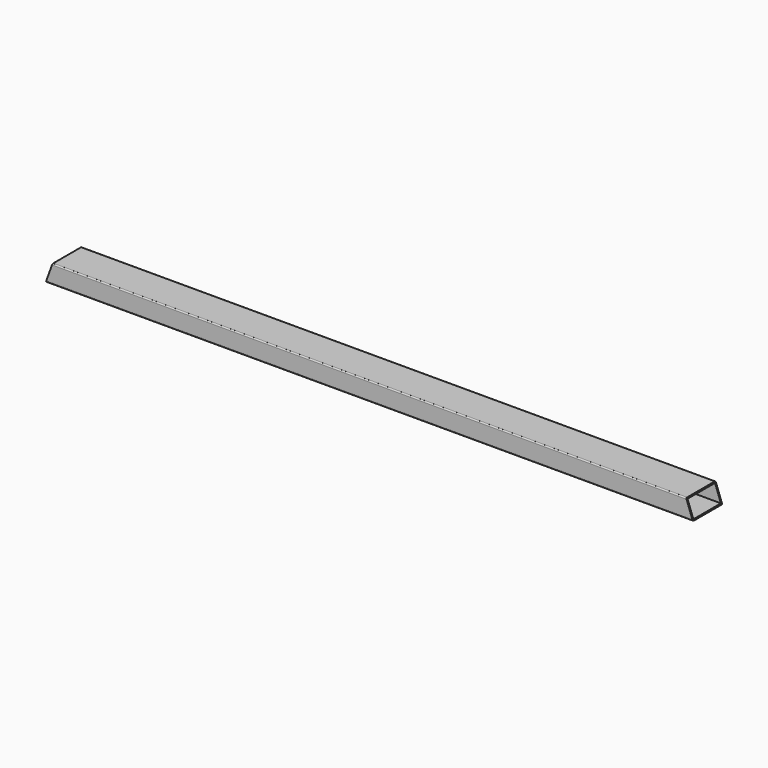
from build123d import *

# Parameters (mm, degrees)
F0_W     = 95.25
F0_H     = 44.45
F1_DEPTH = 1790.9032
F3_DEPTH = 101.601


with BuildPart() as f1:
    # F0 (on Right) → F1 (new body)
    with BuildSketch(Plane.YZ):
        with BuildLine():
            ThreePointArc((50.8, 22.225), (49.870064, 24.470064), (47.625, 25.4))
            Line((47.625, 25.4), (-47.625, 25.4))
            ThreePointArc((-47.625, 25.4), (-49.870064, 24.470064), (-50.8, 22.225))
            Line((-50.8, 22.225), (-50.8, -22.225))
            ThreePointArc((-50.8, -22.225), (-49.870064, -24.470064), (-47.625, -25.4))
            Line((-47.625, -25.4), (47.625, -25.4))
            ThreePointArc((47.625, -25.4), (49.870064, -24.470064), (50.8, -22.225))
            Line((50.8, -22.225), (50.8, 22.225))
        make_face()
        Rectangle(F0_W, F0_H, mode=Mode.SUBTRACT)
    extrude(amount=F1_DEPTH)

    # F2 (on face) → F3 (cut, through all)
    with BuildSketch(Plane.XZ.offset(50.8)):
        Polygon((0, -25.4), (18.489688, 25.4), (0, 25.4), align=None)
        Polygon((1790.9032, -25.4), (1790.9032, 25.4), (1772.413512, 25.4), align=None)
    extrude(amount=-F3_DEPTH, mode=Mode.SUBTRACT)


solid = f1.part
